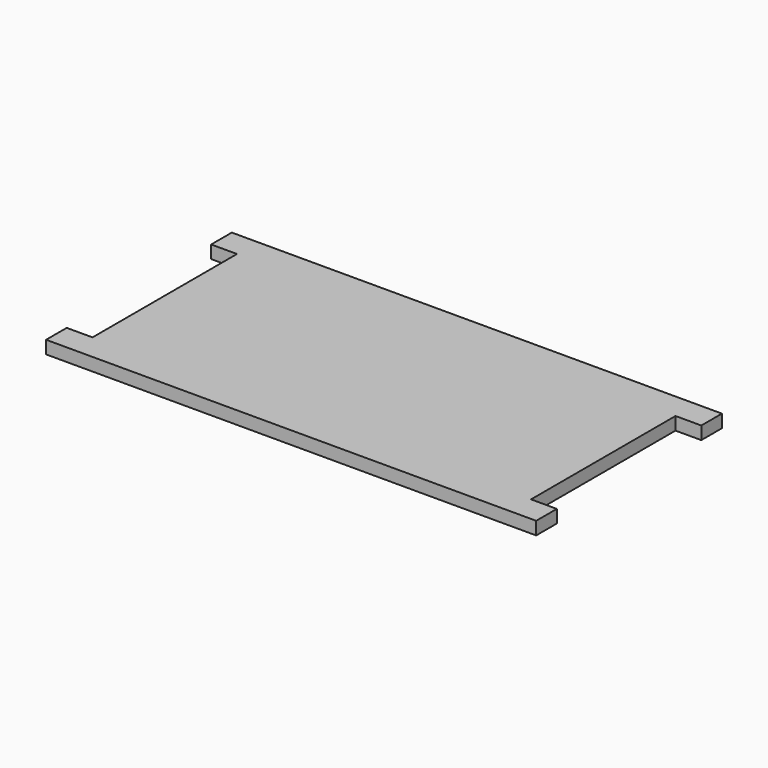
from build123d import *

# Parameters (mm, degrees)
PAD_DEPTH = 5


with BuildPart() as part:
    # Sketch → Pad (new body)
    with BuildSketch(Plane.XY):
        Polygon((-95, 45), (95, 45), (95, 35), (85, 35), (85, -35), (95, -35), (95, -45), (-95, -45), (-95, -35), (-85, -35), (-85, 35), (-95, 35), align=None)
    extrude(amount=PAD_DEPTH)


solid = part.part
